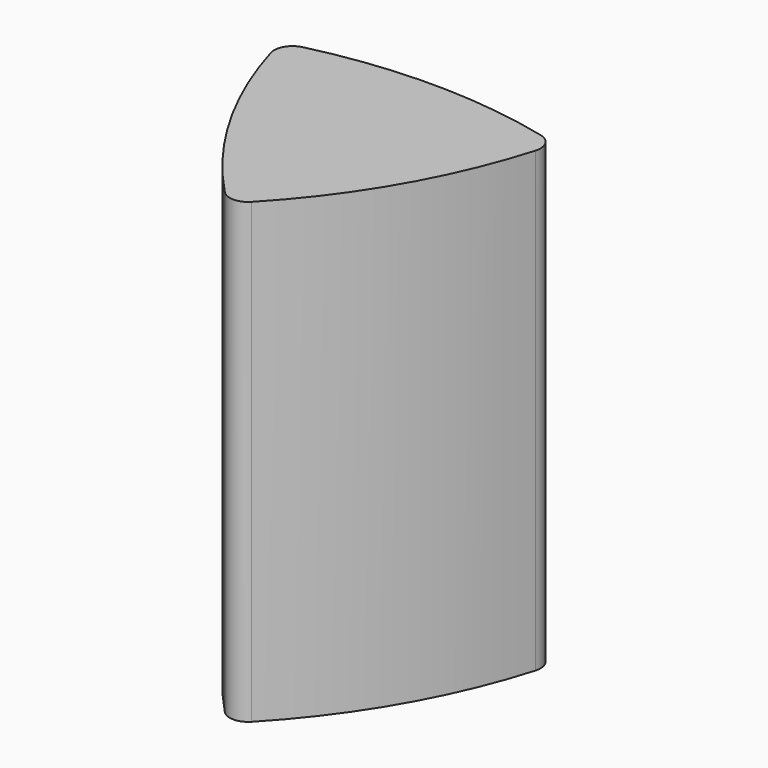
from build123d import *

# Parameters (mm, degrees)
F1_DEPTH = 50
F2_R     = 2


with BuildPart() as f1:
    # F0 (on Top) → F1 (new body)
    with BuildSketch(Plane.XY):
        with BuildLine():
            ThreePointArc((0, -13.478994), (9.30564, -1.5311), (15, 12.501768))
            ThreePointArc((15, 12.501768), (0, 14.586742), (-15, 12.501768))
            ThreePointArc((-15, 12.501768), (-9.30564, -1.5311), (0, -13.478994))
        make_face()
    extrude(amount=F1_DEPTH)

    # F2
    f2_edges = [f1.edges().sort_by_distance(p)[0] for p in [
        (0, -13.478994, 25),
        (15, 12.501768, 25),
        (-15, 12.501768, 25),
    ]]
    fillet(f2_edges, radius=F2_R)


solid = f1.part
